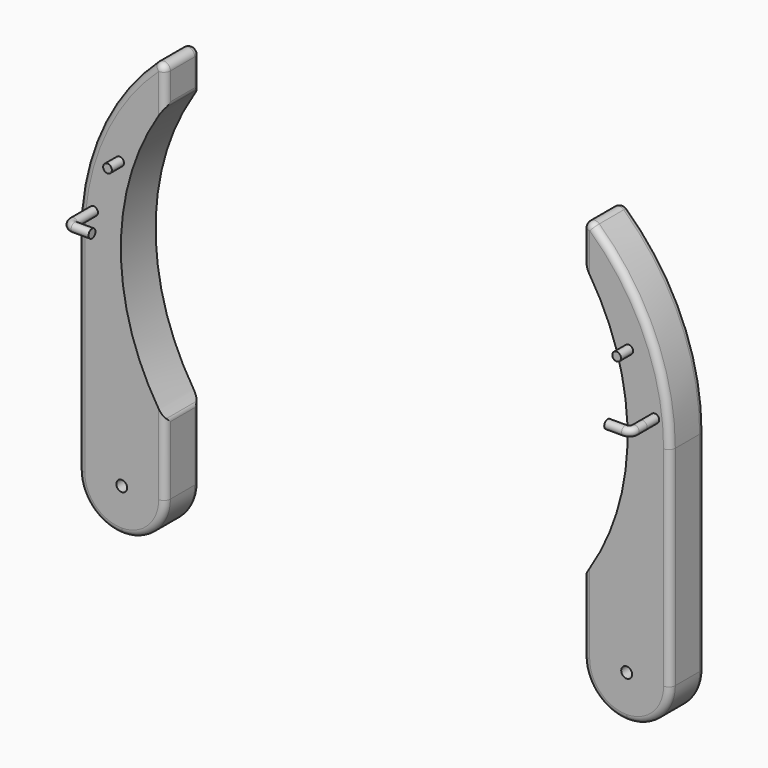
from build123d import *

# Parameters (mm, degrees)
F1_DEPTH  = 25.4
F2_R      = 3.175
F3_DEPTH  = 6.35
F4_R      = 3.81
F5_R      = 2.54
F6_DEPTH  = 8.89
F8_R      = 2.54
F11_R     = 6.35
F12_DEPTH = 25.4


with BuildPart() as f1:
    # F0 (on Front) → F1 (new body)
    with BuildSketch(Plane.XZ):
        with BuildLine():
            Line((0, 66.4387534539), (0, 41.0387534539))
            ThreePointArc((0, 41.0387534539), (37.4494820277, 88.5304728284), (50.8, 147.5193767269))
            ThreePointArc((50.8, 147.5193767269), (37.4494820277, 206.5082806255), (0, 254))
            Line((0, 254), (0, 228.6))
            ThreePointArc((0, 228.6), (25.9369896247, 147.5193767269), (0, 66.4387534539))
        make_face()
        with BuildLine():
            ThreePointArc((0, 25.4), (7.4394877579, 7.4394877579), (25.4, 0))
            ThreePointArc((25.4, 0), (43.3605122421, 7.4394877579), (50.8, 25.4))
            Line((50.8, 25.4), (50.8, 147.5193767269))
            ThreePointArc((50.8, 147.5193767269), (37.4494820277, 88.5304728284), (0, 41.0387534539))
            Line((0, 41.0387534539), (0, 25.4))
        make_face()
    extrude(amount=F1_DEPTH)

    # F2 (on face) → F3 (cut)
    with BuildSketch(Plane.XZ.offset(25.4)):
        with Locations((25.4, 25.4)):
            Circle(F2_R)
    extrude(amount=-F3_DEPTH, mode=Mode.SUBTRACT)

    # F4
    f4_edges = [f1.edges().sort_by_distance(p)[0] for p in [
        (0, -12.7, 254),
        (0, -12.7, 228.6),
        (0, 0, 241.3),
        (0, -25.4, 241.3),
        (0, -12.7, 66.438753),
        (0, -12.7, 25.4),
        (0, 0, 45.919377),
        (0, -25.4, 45.919377),
    ]]
    fillet(f4_edges, radius=F4_R)

    # F5 (on face) → F6 (join)
    with BuildSketch(Plane.XZ.offset(25.4)):
        with Locations((26.6260020435, 191.9900625944)):
            Circle(F5_R)
        with Locations((41.8660020435, 161.5079194307)):
            Circle(F5_R)
    extrude(amount=F6_DEPTH)

    # F10: sweep along a path in F9
    with BuildLine(Plane.XY.offset(161.507932)) as f10_path:
        Line((41.8660020435, -34.29), (41.8660020435, -40.0177))
        ThreePointArc((41.8660020435, -40.0177), (40.9397858176, -42.2537837741), (38.7037020435, -43.18))
        Line((38.7037020435, -43.18), (28.5437020435, -43.18))
    # F8 (on face) → F10 (sweep)
    with BuildSketch(Plane.XZ.offset(34.29)):
        with Locations((41.8660020435, 161.5079194307)):
            Circle(F8_R)
    sweep(path=f10_path.line)

    # F11 (on face) → F12 (cut)
    with BuildSketch(Plane.XZ.offset(19.05)):
        with Locations((25.4, 25.4)):
            Circle(F11_R)
    extrude(amount=-F12_DEPTH, mode=Mode.SUBTRACT)


with BuildPart() as f15_1:
    # F15: instance of F1
    add(f1.part.mirror(Plane.YZ.offset(-122.1450103753)))


solid = Compound([f1.part, f15_1.part])
